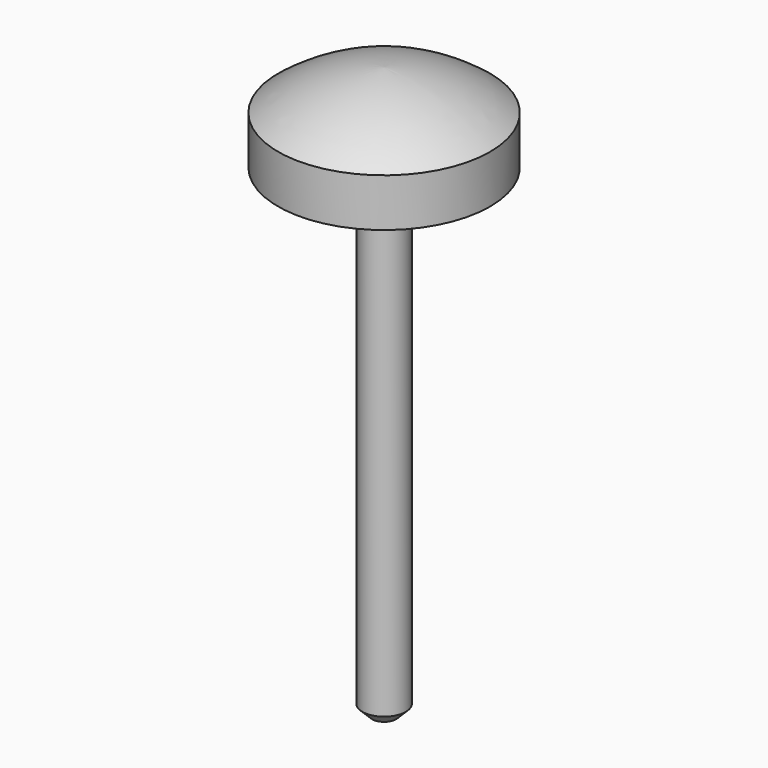
from build123d import *

# Parameters (mm, degrees)
F2_R     = 2.794
F3_DEPTH = 1.27
F4_R     = 0.5715
F5_DEPTH = 12.7
F6_SIZE  = 0.254


with BuildPart() as f1:
    # F0 (on Front) → F1 (revolve)
    with BuildSketch(Plane.XZ):
        with BuildLine():
            Line((0, 1.046796), (0, 0))
            Line((0, 0), (2.794, 0))
            ThreePointArc((2.794, 0), (1.47607, 0.734443), (0, 1.046796))
        make_face()
    revolve(axis=Axis((0, 0, 0.523398), (0, 0, -1)))

    # F2 (on face) → F3 (join)
    with BuildSketch(Plane(origin=(0, 0, 0), x_dir=(1, 0, 0), z_dir=(0, 0, -1))):
        Circle(F2_R)
    extrude(amount=F3_DEPTH)

    # F4 (on face) → F5 (join)
    with BuildSketch(Plane(origin=(0, 0, -1.27), x_dir=(1, 0, 0), z_dir=(0, 0, -1))):
        Circle(F4_R)
    extrude(amount=F5_DEPTH)

    # F6
    f6_edges = [f1.edges().sort_by_distance(p)[0] for p in [
        (-0.5715, 0, -13.97),
    ]]
    chamfer(f6_edges, length=F6_SIZE)


solid = f1.part
